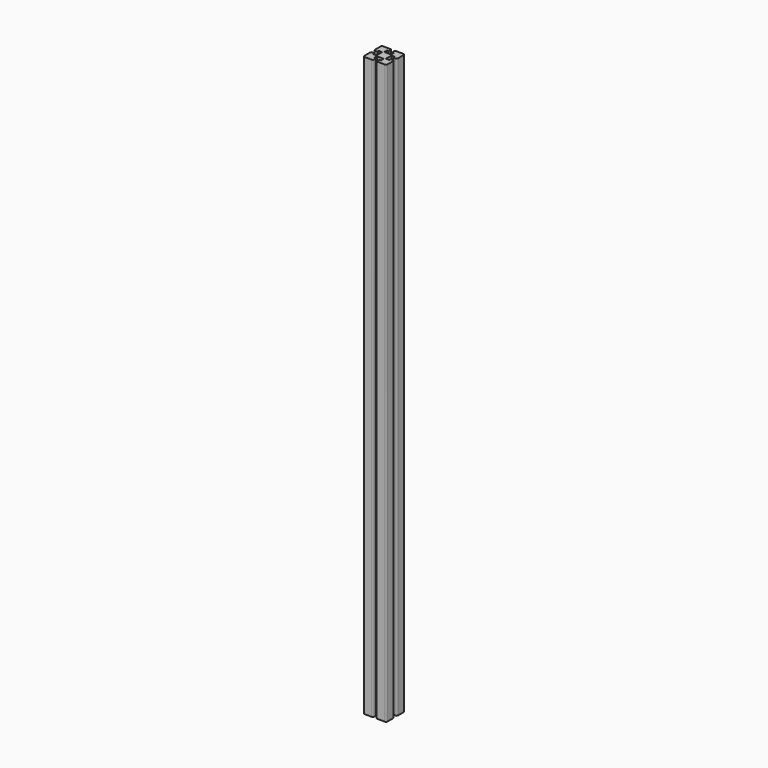
from build123d import *

# Parameters (mm, degrees)
F1_DEPTH = 1000
F2_R     = 2


with BuildPart() as f1:
    # F0 (on Top) → F1 (new body)
    with BuildSketch(Plane.XY):
        Polygon((20, 3), (20, 20), (3, 20), (3, 14), (6, 14), (6, 8), (-6, 8), (-6, 14), (-3, 14), (-3, 20), (-20, 20), (-20, 3), (-14, 3), (-14, 6), (-8, 6), (-8, -6), (-14, -6), (-14, -3), (-20, -3), (-20, -20), (-3.00035, -20), (-2.908665, -14), (-6, -14), (-6, -8), (6, -8), (6, -14), (3.092036, -14), (3.00035, -20), (20, -20), (20, -3), (14, -3), (14, -6), (8, -6), (8, 6), (14, 6), (14, 3), align=None)
    extrude(amount=F1_DEPTH)

    # F2
    f2_edges = [f1.edges().sort_by_distance(p)[0] for p in [
        (20, 3, 500),
        (20, 20, 500),
        (20, -20, 500),
        (20, -3, 500),
        (-3.00035, -20, 500),
        (-3, 20, 500),
        (3, 20, 500),
        (-20, 20, 500),
        (-20, -3, 500),
        (-20, 3, 500),
        (-20, -20, 500),
    ]]
    fillet(f2_edges, radius=F2_R)


solid = f1.part
